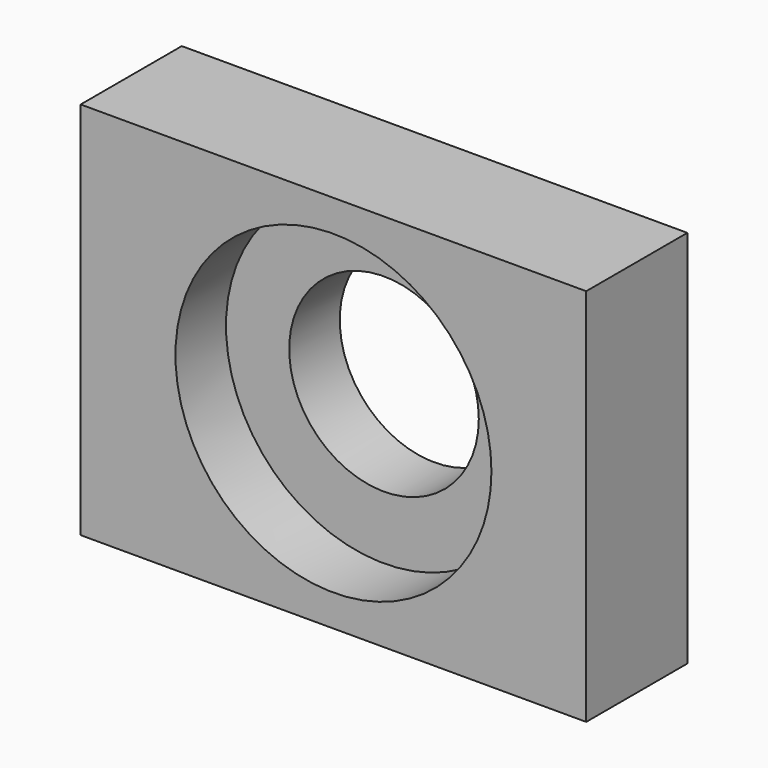
from build123d import *

# Parameters (mm, degrees)
F0_W     = 101.6
F0_H     = 76.2
F0_R     = 31.75
F1_DEPTH = 25.4
F0_R_2   = 19.05
F2_DEPTH = 12.7


with BuildPart() as f1:
    # F0 (on Front) → F1 (new body)
    with BuildSketch(Plane.XZ):
        with Locations((50.8, 38.1)):
            Rectangle(F0_W, F0_H)
        with Locations((50.8, 38.1)):
            Circle(F0_R, mode=Mode.SUBTRACT)
    extrude(amount=F1_DEPTH)

    # F0 (on Front) → F2 (join)
    with BuildSketch(Plane.XZ):
        with Locations((50.8, 38.1)):
            Circle(F0_R)
        with Locations((50.8, 38.1)):
            Circle(F0_R_2, mode=Mode.SUBTRACT)
    extrude(amount=F2_DEPTH)


solid = f1.part
